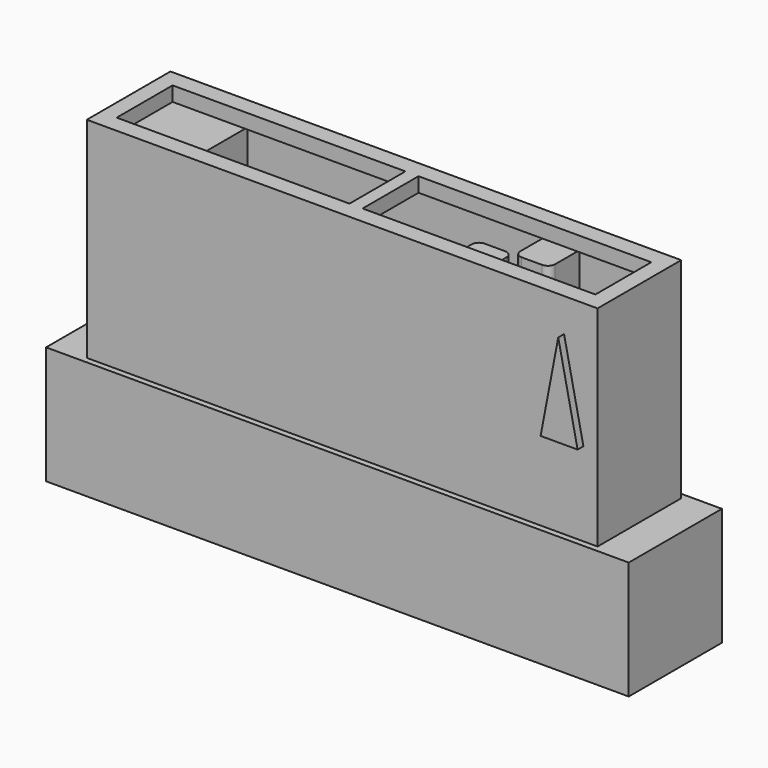
from build123d import *

# Parameters (mm, degrees)
PAD_DEPTH     = 7.5
SKETCH002_W   = 34
SKETCH002_H   = 6.8
PAD001_DEPTH  = 0.6
SKETCH001_W   = 35.08
SKETCH001_H   = 7.18
PAD002_DEPTH  = 14
PAD003_DEPTH  = 0.5
PAD004_DEPTH  = 0.5
SKETCH005_W   = 35.08
SKETCH005_H   = 7.18
SKETCH005_W_2 = 15.99
SKETCH005_H_2 = 4.8
PAD005_DEPTH  = 1
POCKET_DEPTH  = 16.5


with BuildPart() as part:
    # Sketch → Pad (new body)
    with BuildSketch(Plane.XY):
        Polygon((-20.01, 4), (-3.25, 4), (-3.25, 5), (3.25, 5), (3.25, 4), (20.01, 4), (20.01, -4), (-20.01, -4), align=None)
        Polygon((-19.01, 3), (-2.25, 3), (-2.25, 4), (2.25, 4), (2.25, 3), (19.01, 3), (19.01, -3), (-19.01, -3), align=None, mode=Mode.SUBTRACT)
    extrude(amount=-PAD_DEPTH)

    # Sketch002 → Pad001 (join)
    with BuildSketch(Plane.XY):
        Polygon((-20.01, 4), (-20.01, -4), (20.01, -4), (20.01, 4), (3.25, 4), (3.25, 5), (-3.25, 5), (-3.25, 4), align=None)
        Rectangle(SKETCH002_W, SKETCH002_H, mode=Mode.SUBTRACT)
    extrude(amount=PAD001_DEPTH)

    # Sketch001 → Pad002 (join)
    with BuildSketch(Plane.XY):
        Rectangle(SKETCH001_W, SKETCH001_H)
        with BuildLine():
            Line((16.54, 2.59), (16.54, -2.59))
            Line((16.54, -2.59), (8.82, -2.59))
            Line((8.82, -0.5), (8.82, -2.59))
            ThreePointArc((8.82, -0.5), (8.673553, -0.146447), (8.32, 0))
            Line((6.92, 0), (8.32, 0))
            ThreePointArc((6.92, 0), (6.566447, -0.146447), (6.42, -0.5))
            Line((6.42, -2.59), (6.42, -0.5))
            Line((6.42, -2.59), (-11.46, -2.59))
            Line((-11.46, -2.59), (-11.46, 2.59))
            Line((-11.46, 2.59), (8.96, 2.59))
            Line((8.96, 0.5), (8.96, 2.59))
            ThreePointArc((8.96, 0.5), (9.106447, 0.146447), (9.46, 0))
            Line((10.86, 0), (9.46, 0))
            ThreePointArc((10.86, 0), (11.213553, 0.146447), (11.36, 0.5))
            Line((11.36, 2.59), (11.36, 0.5))
            Line((11.36, 2.59), (16.54, 2.59))
        make_face(mode=Mode.SUBTRACT)
    extrude(amount=PAD002_DEPTH)

    # Sketch003 (on Face1 of Pad) → Pad003 (join)
    with BuildSketch(Plane(origin=(0, 4, 0), x_dir=(-1, 0, 0), z_dir=(0, 1, 0))):
        Polygon((15, -6), (16.5, -1.5), (13.5, -1.5), align=None)
    extrude(amount=PAD003_DEPTH)

    # Sketch004 (on Face33 of Pad003) → Pad004 (join)
    with BuildSketch(Plane.XZ.offset(3.59)):
        Polygon((16.568533, 6.35), (15.24, 12.7), (14.028533, 6.35), align=None)
    extrude(amount=PAD004_DEPTH)

    # Sketch005 → Pad005 (join)
    with BuildSketch(Plane.XY.offset(14)):
        Rectangle(SKETCH005_W, SKETCH005_H)
        with Locations((-8.445, 0)):
            Rectangle(SKETCH005_W_2, SKETCH005_H_2, mode=Mode.SUBTRACT)
        with Locations((8.445, 0)):
            Rectangle(SKETCH005_W_2, SKETCH005_H_2, mode=Mode.SUBTRACT)
    extrude(amount=PAD005_DEPTH)

    # Sketch006 → Pocket (cut, symmetric)
    with BuildSketch(Plane.YZ):
        Polygon((-3, 0), (-3, -1), (3, -1), (3, 0), (0, 3), align=None)
    extrude(amount=POCKET_DEPTH, both=True, mode=Mode.SUBTRACT)


solid = part.part
